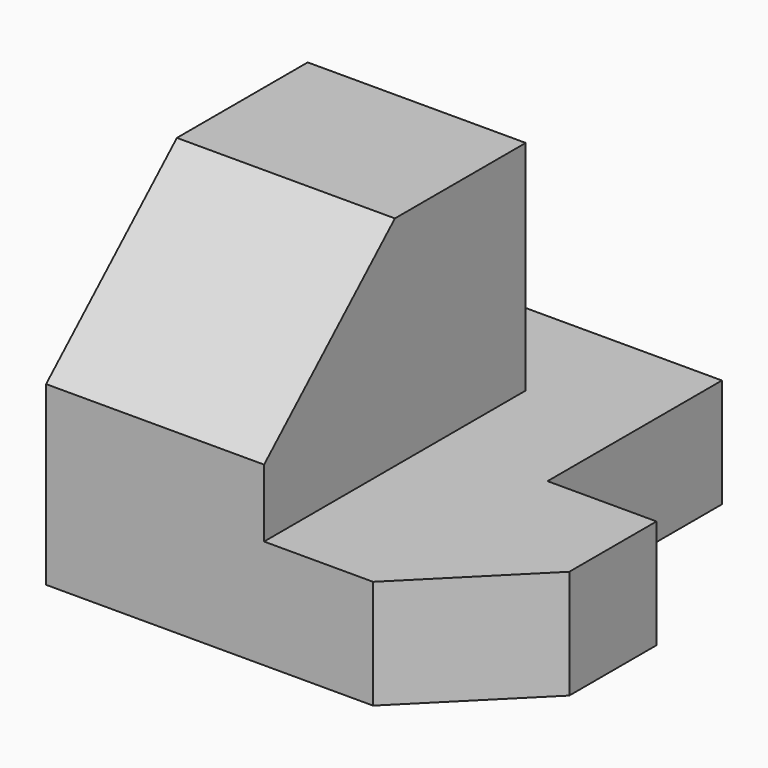
from build123d import *

# Parameters (mm, degrees)
F0_W      = 1016
F0_H      = 762
F1_DEPTH  = 1016
F2_W      = 254
F2_H      = 508
F3_DEPTH  = 1016
F6_DEPTH  = 508
F7_DEPTH  = 25
F9_DEPTH  = 254
F11_DEPTH = 762
F12_SIZE  = 254


with BuildPart() as f1:
    # F0 (on Front) → F1 (new body)
    with BuildSketch(Plane.XZ):
        with Locations((0.4440769553, -133.8159580914)):
            Rectangle(F0_W, F0_H)
    extrude(amount=F1_DEPTH)

    # F2 (on face) → F3 (cut)
    with BuildSketch(Plane.XY.offset(247.1840419086)):
        with Locations((381.4440769553, -254)):
            Rectangle(F2_W, F2_H)
    extrude(amount=-F3_DEPTH, mode=Mode.SUBTRACT)

    # F4 (on face) → F6 (cut)
    with BuildSketch(Plane.XY.offset(247.1840419086)):
        Polygon((0.4440769553, -254), (0.4440769553, -1016), (508.4440769553, -1016), (508.4440769553, -508), (254.4440769553, -508), (254.4440769553, 0), (-507.5559230447, 0), (-507.5559230447, -254), align=None)
    extrude(amount=-F6_DEPTH, mode=Mode.SUBTRACT)

    # F10 (on face) → F11 (cut)
    with BuildSketch(Plane(origin=(-507.5559230447, 0, 0), x_dir=(0, -1, 0), z_dir=(-1, 0, 0))):
        Polygon((1016, -102.9850542545), (1016, 247.1840419086), (635, 247.1840419086), align=None)
    extrude(amount=-F11_DEPTH, mode=Mode.SUBTRACT)

    # F12
    f12_edges = [f1.edges().sort_by_distance(p)[0] for p in [
        (508.444077, -1016, -387.815958),
    ]]
    chamfer(f12_edges, length=F12_SIZE)


with BuildPart() as f7:
    # F5 (on face) → F7 (new body)
    with BuildSketch(Plane.XY.offset(247.1840419086)):
        Polygon((254.4440769553, 0), (-506.6555738449, 0), (-506.6555738449, -254), (0.4440769553, -254), (0.4440769553, -1016), (508.4440769553, -1016), (508.4440769553, -508), (254.4440769553, -508), align=None)
    extrude(amount=F7_DEPTH)

    # F8 (on face) → F9 (cut)
    with BuildSketch(Plane.XY.offset(272.1840419086)):
        Polygon((-506.6555738449, -254), (0.4440769553, -254), (0.4440769553, -1016), (508.4440769553, -1016), (508.4440769553, -508), (254.4440769553, -508), (254.4440769553, 0), (-506.6555738449, 0), align=None)
    extrude(amount=-F9_DEPTH, mode=Mode.SUBTRACT)


solid = f1.part
